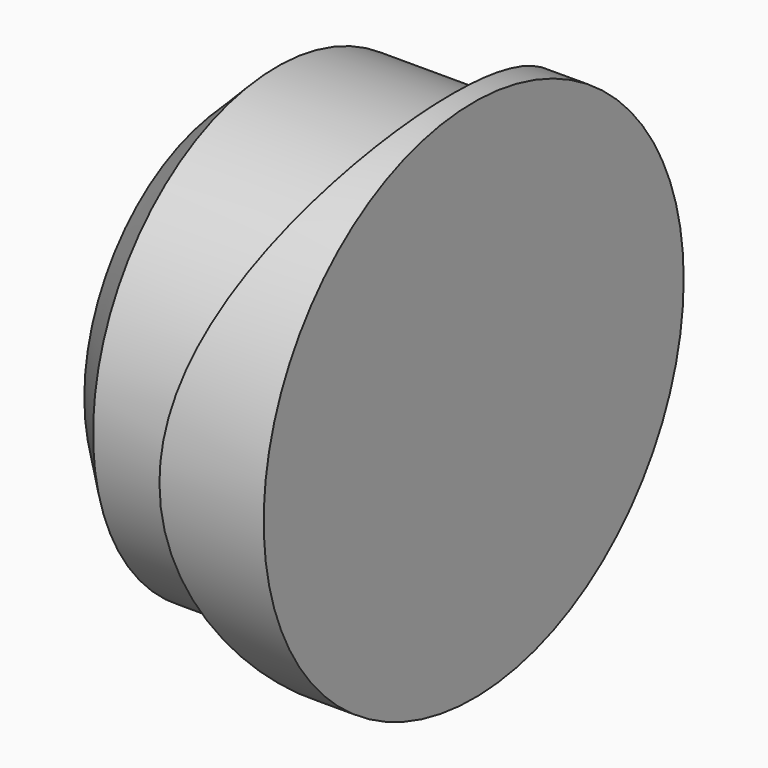
from build123d import *

# Parameters (mm, degrees)
F0_R          = 12
F1_DEPTH      = 5
F2_R          = 21
F3_DEPTH      = 12.001
F3_DEPTH_BACK = 12.001
F4_R          = 10.5
F5_DEPTH      = 6
F5_DEPTH_BACK = 4
F6_SIZE       = 2
F8_D          = 3
F8_DEPTH      = 8
F8_TIP        = 0.9012909285


with BuildPart() as f1:
    # F0 (on Right) → F1 (new body)
    with BuildSketch(Plane.YZ):
        Circle(F0_R)
    extrude(amount=F1_DEPTH)

    # F2 (on Top) → F3 (cut, two sides)
    with BuildSketch(Plane.XY) as f3_sk:
        with Locations((-17, 0)):
            Circle(F2_R)
    extrude(amount=-F3_DEPTH, mode=Mode.SUBTRACT)
    extrude(f3_sk.sketch, amount=F3_DEPTH_BACK, mode=Mode.SUBTRACT)

    # F4 (on Right) → F5 (join, two sides)
    with BuildSketch(Plane.YZ) as f5_sk:
        Circle(F4_R)
    extrude(amount=-F5_DEPTH)
    extrude(f5_sk.sketch, amount=F5_DEPTH_BACK)

    # F6
    f6_edges = [f1.edges().sort_by_distance(p)[0] for p in [
        (-6, -10.5, 0),
    ]]
    chamfer(f6_edges, length=F6_SIZE)

    # F8
    with Locations(Plane(origin=(-6, 0, 0), x_dir=(0, -1, 0), z_dir=(-1, 0, 0))):
        with Locations((0, 0)):
            Hole(F8_D / 2, depth=F8_DEPTH)
            with Locations((0, 0, -(F8_DEPTH + F8_TIP / 2))):  # 118° drill point
                Cone(0, F8_D / 2, F8_TIP, mode=Mode.SUBTRACT)


solid = f1.part
